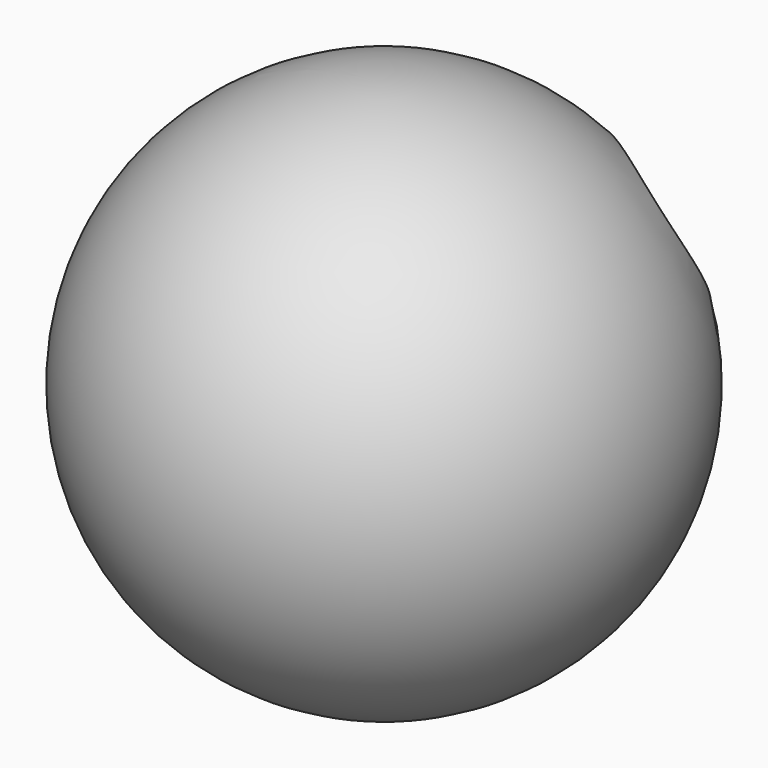
from build123d import *

# Parameters (mm, degrees)
F2_R     = 7.62
F3_DEPTH = 76.2


with BuildPart() as f1:
    # F0 (on Front) → F1 (revolve)
    with BuildSketch(Plane.XZ):
        with BuildLine():
            Line((0, -25.4), (0, 25.4))
            ThreePointArc((0, 25.4), (-25.4, 0), (0, -25.4))
        make_face()
    revolve(axis=Axis((0, 0, 0), (0, 0, -1)))

    # F2 (on Front) → F3 (cut)
    with BuildSketch(Plane.XZ):
        with Locations((-11.303624, 9.141192)):
            Circle(F2_R)
        with Locations((10.320701, 9.534361)):
            Circle(F2_R)
        with Locations((9.141192, -12.483133)):
            Circle(F2_R)
        with Locations((-9.337776, -13.662642)):
            Circle(F2_R)
    extrude(amount=-F3_DEPTH, mode=Mode.SUBTRACT)


solid = f1.part
